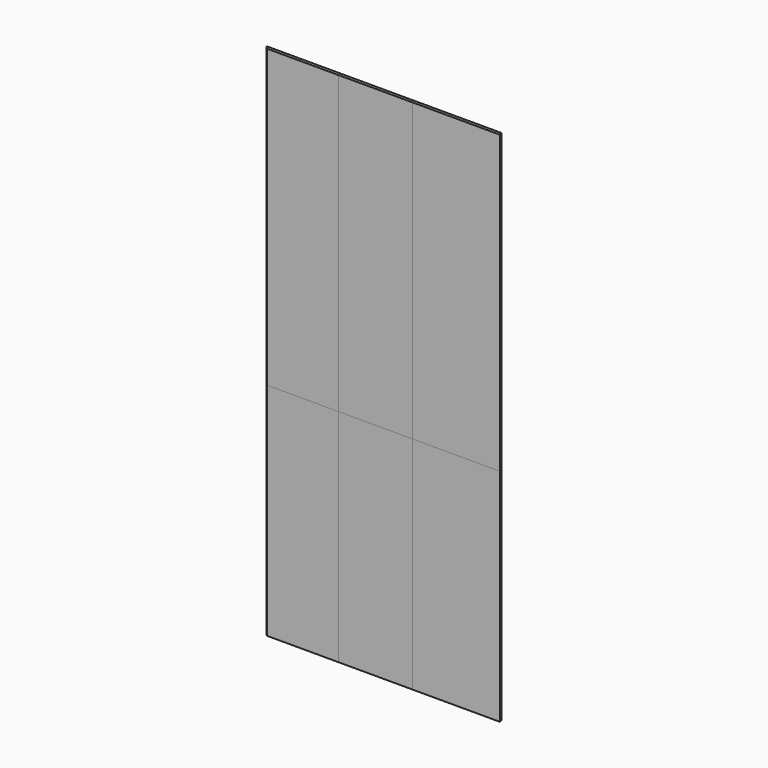
from build123d import *

# Parameters (mm, degrees)
F1_DEPTH = 2438.4
F0_W     = 609.6
F0_H     = 25.4
F2_DEPTH = 2438.4
F3_DEPTH = 2438.4
F4_DEPTH = 1816.1
F5_DEPTH = 1816.1
F6_DEPTH = 1816.1


with BuildPart() as f1:
    # F0 (on Top) → F1 (new body)
    with BuildSketch(Plane.XY):
        Polygon((615.95, 0), (0, 0), (25.4, -25.4), (615.95, -25.4), align=None)
    extrude(amount=-F1_DEPTH)


with BuildPart() as f2:
    # F0 (on Top) → F2 (new body, through all)
    with BuildSketch(Plane.XY):
        with Locations((920.75, -12.7)):
            Rectangle(F0_W, F0_H)
    extrude(amount=-F2_DEPTH)


with BuildPart() as f3:
    # F0 (on Top) → F3 (new body, through all)
    with BuildSketch(Plane.XY):
        Polygon((1937.7737486287, 0), (1225.55, 0), (1225.55, -25.4), (1944.751, -25.4), align=None)
    extrude(amount=-F3_DEPTH)


with BuildPart() as f4:
    # F4 (new): a face of the model
    f4_faces = [f1.part.faces().sort_by_distance(p)[0] for p in [
        (314.2804385965, -12.610877193, -2438.4),
    ]]
    extrude(f4_faces, amount=F4_DEPTH)


with BuildPart() as f5:
    # F5 (new, through all): a face of the model
    f5_faces = [f2.part.faces().sort_by_distance(p)[0] for p in [
        (920.75, -12.7, -2438.4),
    ]]
    extrude(f5_faces, amount=F5_DEPTH)


with BuildPart() as f6:
    # F6 (new, through all): a face of the model
    f6_faces = [f3.part.faces().sort_by_distance(p)[0] for p in [
        (1583.409021282, -12.7206347074, -2438.4),
    ]]
    extrude(f6_faces, amount=F6_DEPTH)


solid = Compound([f1.part, f2.part, f3.part, f4.part, f5.part, f6.part])
